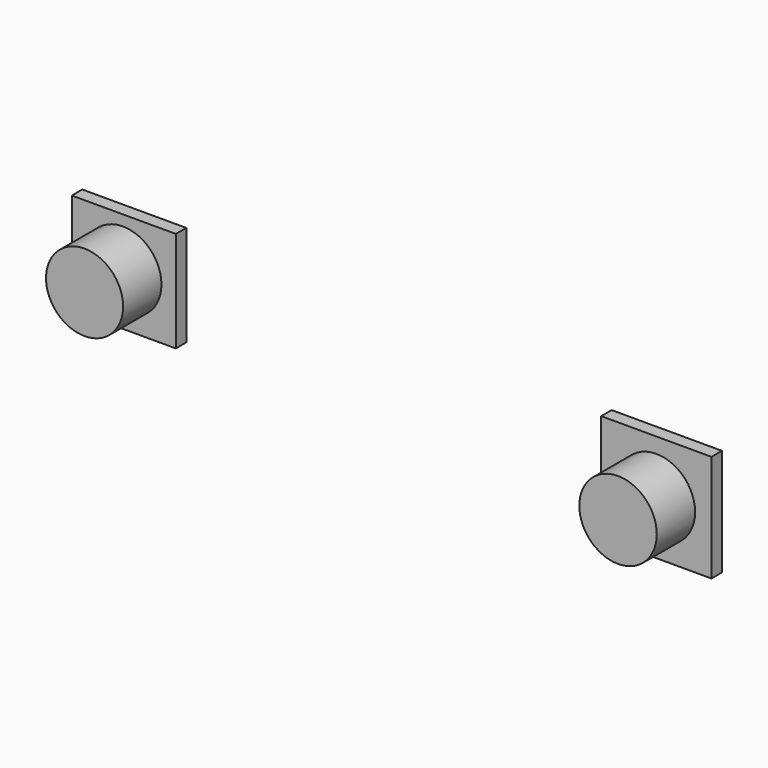
from build123d import *

# Parameters (mm, degrees)
F0_R     = 4.425
F0_R_2   = 4.445
F1_DEPTH = 7
F0_W     = 11.93456
F0_H     = 11.572907
F0_W_2   = 12.657864
F0_H_2   = 12.296212
F2_DEPTH = 1.5


with BuildPart() as f1:
    # F0 (on Front) → F1 (new body)
    with BuildSketch(Plane.XZ):
        with Locations((-41.42883, 31.24395)):
            Circle(F0_R)
        with Locations((19.806811, 28.157803)):
            Circle(F0_R_2)
    extrude(amount=F1_DEPTH)


with BuildPart() as f2:
    # F0 (on Front) → F2 (new body)
    with BuildSketch(Plane.XZ):
        with Locations((-41.318888, 31.102183)):
            Rectangle(F0_W, F0_H)
        with Locations((-41.42883, 31.24395)):
            Circle(F0_R, mode=Mode.SUBTRACT)
        with Locations((19.800517, 28.208957)):
            Rectangle(F0_W_2, F0_H_2)
        with Locations((19.806811, 28.157803)):
            Circle(F0_R_2, mode=Mode.SUBTRACT)
    extrude(amount=F2_DEPTH)


solid = Compound([f1.part, f2.part])
